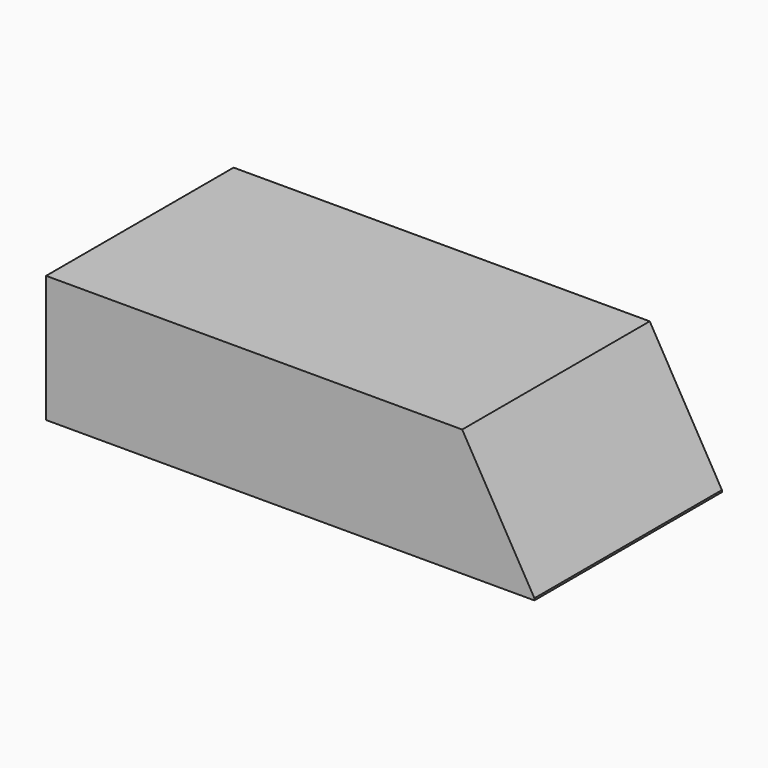
from build123d import *

# Parameters (mm, degrees)
BOX019_W               = 250
BOX019_H               = 120
BOX019_DEPTH           = 65
BOX019_PLACEMENT_ANGLE = 60
BOX018_W               = 250
BOX018_H               = 120
BOX018_DEPTH           = 65


with BuildPart() as box019:
    # Box019 → Box019 (new body)
    with BuildSketch(Plane.XY):
        with Locations((125, 60)):
            Rectangle(BOX019_W, BOX019_H)
    extrude(amount=BOX019_DEPTH)


with BuildPart() as box019_1:
    # Box019 placement: moved
    add(box019.part.moved(Location((187.927513, 0, 108.5))).rotate(Axis((187.927513, 0, 108.5), (0, 1, 0)), BOX019_PLACEMENT_ANGLE))


with BuildPart() as cut010:
    # Box018 → Box018 (new body)
    with BuildSketch(Plane.XY):
        with Locations((125, 60)):
            Rectangle(BOX018_W, BOX018_H)
    extrude(amount=BOX018_DEPTH)

    # Cut010: cut Box019
    add(box019_1.part, mode=Mode.SUBTRACT)


solid = cut010.part
